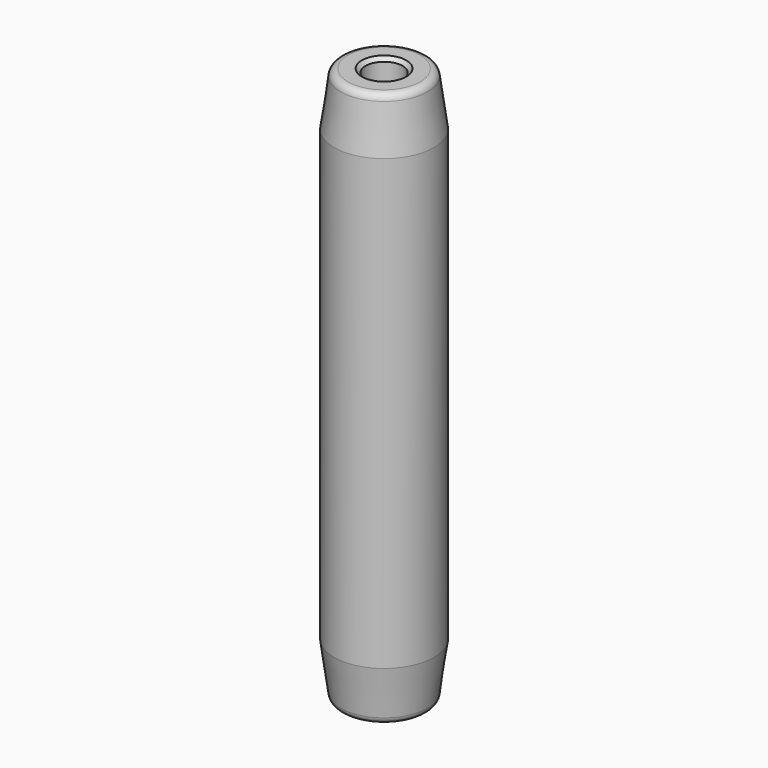
from build123d import *

# Parameters (mm, degrees)
F2_R    = 1
F3_SIZE = 0.5


with BuildPart() as f1:
    # F0 (on Front) → F1 (revolve)
    with BuildSketch(Plane.XZ):
        Polygon((5.75, 37.5), (2.5, 37.5), (2.5, -37.5), (5.75, -37.5), (6.75, -30.3), (6.75, 30.3), align=None)
    revolve(axis=Axis((0, 0, 0), (0, 0, 1)))

    # F2
    f2_edges = [f1.edges().sort_by_distance(p)[0] for p in [
        (-5.75, 0, 37.5),
        (-5.75, 0, -37.5),
    ]]
    fillet(f2_edges, radius=F2_R)

    # F3
    f3_edges = [f1.edges().sort_by_distance(p)[0] for p in [
        (-2.5, 0, 37.5),
        (-2.5, 0, -37.5),
    ]]
    chamfer(f3_edges, length=F3_SIZE)


solid = f1.part
